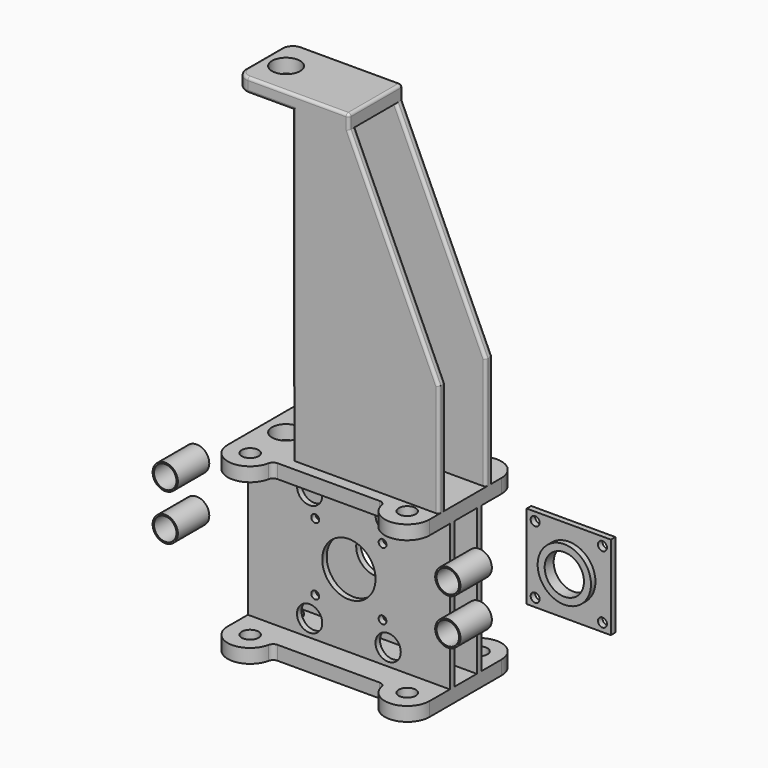
from build123d import *

# Parameters (mm, degrees)
F0_R      = 25
F0_R_2    = 15
F1_DEPTH  = 25
F2_R      = 10
F4_DEPTH  = 260
F5_R      = 15
F6_DEPTH  = 25
F7_R      = 22.5
F8_DEPTH  = 70
F9_R      = 22.5
F9_R_2    = 20
F10_DEPTH = 70
F11_W     = 260
F11_H     = 15
F12_DEPTH = 550
F14_DEPTH = 35
F16_DEPTH = 70
F17_R     = 25
F17_W     = 100
F17_H     = 15
F18_DEPTH = 25
F19_R     = 20
F20_R     = 5
F21_R     = 35
F22_DEPTH = 10
F23_R     = 7
F23_R_2   = 47.5
F24_DEPTH = 10
F25_W     = 150
F25_H     = 150
F25_R     = 8
F25_R_2   = 47.5
F25_R_3   = 35
F26_DEPTH = 10
F27_R     = 47.5
F27_R_2   = 35
F28_DEPTH = 10


with BuildPart() as f1:
    # F0 (on Top) → F1 (new body)
    with BuildSketch(Plane.XY):
        with BuildLine():
            Line((100, 80), (-100, 80))
            ThreePointArc((-100, 80), (-140, 40), (-180, 80))
            Line((-180, 80), (-180, -80))
            ThreePointArc((-180, -80), (-140, -40), (-100, -80))
            Line((-100, -80), (100, -80))
            ThreePointArc((100, -80), (140, -40), (180, -80))
            Line((180, -80), (180, 80))
            ThreePointArc((180, 80), (140, 40), (100, 80))
        make_face()
        with Locations((-140, 0)):
            Circle(F0_R, mode=Mode.SUBTRACT)
        with BuildLine():
            ThreePointArc((-180, 80), (-140, 40), (-100, 80))
            ThreePointArc((-100, 80), (-140, 120), (-180, 80))
        make_face()
        with Locations((-140, 80)):
            Circle(F0_R_2, mode=Mode.SUBTRACT)
        with BuildLine():
            ThreePointArc((180, 80), (140, 120), (100, 80))
            ThreePointArc((100, 80), (140, 40), (180, 80))
        make_face()
        with Locations((140, 80)):
            Circle(F0_R_2, mode=Mode.SUBTRACT)
        with BuildLine():
            ThreePointArc((100, -80), (140, -120), (180, -80))
            ThreePointArc((180, -80), (140, -40), (100, -80))
        make_face()
        with Locations((140, -80)):
            Circle(F0_R_2, mode=Mode.SUBTRACT)
        with BuildLine():
            ThreePointArc((-100, -80), (-140, -40), (-180, -80))
            ThreePointArc((-180, -80), (-140, -120), (-100, -80))
        make_face()
        with Locations((-140, -80)):
            Circle(F0_R_2, mode=Mode.SUBTRACT)
    extrude(amount=F1_DEPTH)

    # F2
    f2_edges = [f1.edges().sort_by_distance(p)[0] for p in [
        (-100, 80, 12.5),
        (100, 80, 12.5),
        (100, -80, 12.5),
        (-100, -80, 12.5),
    ]]
    fillet(f2_edges, radius=F2_R)

    # F3 (on face) → F4 (join)
    with BuildSketch(Plane(origin=(0, 0, 0), x_dir=(1, 0, 0), z_dir=(0, 0, -1))):
        Polygon((-180, 35), (-180, 25), (-140, 25), (180, 25), (180, 35), align=None)
        Polygon((-140, -25), (-180, -25), (-180, -35), (180, -35), (180, -25), align=None)
    extrude(amount=F4_DEPTH)

    # F5 (on face) → F6 (join)
    with BuildSketch(Plane(origin=(0, 0, -260), x_dir=(1, 0, 0), z_dir=(0, 0, -1))):
        with BuildLine():
            Line((-180, 80), (-180, 35))
            Line((-180, 35), (180, 35))
            Line((180, 35), (180, 80))
            ThreePointArc((180, 80), (144.0203584802, 119.7974461202), (100.8081641155, 88))
            ThreePointArc((100.8081641155, 88), (97.3347604647, 82.2540333076), (91.0102051443, 80))
            Line((91.0102051443, 80), (-91.0102051443, 80))
            ThreePointArc((-91.0102051443, 80), (-97.3347604647, 82.2540333076), (-100.8081641155, 88))
            ThreePointArc((-100.8081641155, 88), (-144.0203584802, 119.7974461202), (-180, 80))
        make_face()
        with Locations((-140, 80)):
            Circle(F5_R, mode=Mode.SUBTRACT)
        with Locations((140, 80)):
            Circle(F5_R, mode=Mode.SUBTRACT)
        Polygon((180, 35), (-180, 35), (-180, 25), (-140, 25), (180, 25), align=None)
        with BuildLine():
            Line((-140, 25), (-180, 25))
            Line((-180, 25), (-180, -25))
            Line((-180, -25), (-140, -25))
            ThreePointArc((-140, -25), (-165, 0), (-140, 25))
        make_face()
        with BuildLine():
            Line((180, -25), (180, 25))
            Line((180, 25), (-140, 25))
            ThreePointArc((-140, 25), (-115, 0), (-140, -25))
            Line((-140, -25), (180, -25))
        make_face()
        Polygon((-140, -25), (-180, -25), (-180, -35), (180, -35), (180, -25), align=None)
        with BuildLine():
            Line((180, -35), (-180, -35))
            Line((-180, -35), (-180, -80))
            ThreePointArc((-180, -80), (-144.0203584802, -119.7974461202), (-100.8081641155, -88))
            ThreePointArc((-100.8081641155, -88), (-97.3347604647, -82.2540333076), (-91.0102051443, -80))
            Line((-91.0102051443, -80), (91.0102051443, -80))
            ThreePointArc((91.0102051443, -80), (97.3347604647, -82.2540333076), (100.8081641155, -88))
            ThreePointArc((100.8081641155, -88), (144.0203584802, -119.7974461202), (180, -80))
            Line((180, -80), (180, -35))
        make_face()
        with Locations((-140, -80)):
            Circle(F5_R, mode=Mode.SUBTRACT)
        with Locations((140, -80)):
            Circle(F5_R, mode=Mode.SUBTRACT)
    extrude(amount=F6_DEPTH)

    # F7 (on face) → F8 (cut)
    with BuildSketch(Plane.XZ.offset(35)):
        with Locations((-70, -30)):
            Circle(F7_R)
        with Locations((70, -30)):
            Circle(F7_R)
        with Locations((70, -230)):
            Circle(F7_R)
        with Locations((-70, -230)):
            Circle(F7_R)
    extrude(amount=-F8_DEPTH, mode=Mode.SUBTRACT)

    # F11 (on face) → F12 (join)
    with BuildSketch(Plane.XY.offset(25)):
        with Locations((50, 52.5)):
            Rectangle(F11_W, F11_H)
        with Locations((50, -52.5)):
            Rectangle(F11_W, F11_H)
    extrude(amount=F12_DEPTH)

    # F13 (on face) → F14 (cut, symmetric)
    with BuildSketch(Plane.XZ.offset(60)):
        Polygon((180, 575), (20, 575), (180, 225), align=None)
    extrude(amount=F14_DEPTH, both=True, mode=Mode.SUBTRACT)

    # F15 (on face) → F16 (cut)
    with BuildSketch(Plane(origin=(0, 60, 0), x_dir=(-1, 0, 0), z_dir=(0, 1, 0))):
        Polygon((-180, 225), (-20, 575), (-180, 575), align=None)
    extrude(amount=-F16_DEPTH, mode=Mode.SUBTRACT)

    # F17 (on face) → F18 (join)
    with BuildSketch(Plane.XY.offset(575)):
        Polygon((-180, -60), (-80, -60), (-80, -45), (20, -45), (20, 45), (-80, 45), (-80, 60), (-180, 60), align=None)
        with Locations((-140, 0)):
            Circle(F17_R, mode=Mode.SUBTRACT)
        with Locations((-30, 52.5)):
            Rectangle(F17_W, F17_H)
        with Locations((-30, -52.5)):
            Rectangle(F17_W, F17_H)
    extrude(amount=F18_DEPTH)

    # F19
    f19_edges = [f1.edges().sort_by_distance(p)[0] for p in [
        (-180, 60, 587.5),
        (-180, -60, 587.5),
    ]]
    fillet(f19_edges, radius=F19_R)

    # F20
    f20_edges = [f1.edges().sort_by_distance(p)[0] for p in [
        (20, 0, 600),
        (20, -60, 587.5),
        (20, 60, 587.5),
        (100, 60, 400),
        (100, 45, 400),
        (180, 45, 125),
        (180, 60, 125),
        (-80, 60, 300),
        (-80, 45, 300),
        (-80, -60, 300),
        (-80, -45, 300),
        (-180, 0, 600),
        (-180, 0, 575),
        (100, -60, 400),
        (180, -60, 125),
        (180, -45, 125),
        (100, -45, 400),
    ]]
    fillet(f20_edges, radius=F20_R)

    # F21 (on face) → F22 (cut)
    with BuildSketch(Plane(origin=(0, 35, 0), x_dir=(-1, 0, 0), z_dir=(0, 1, 0))):
        with Locations((0, -130)):
            Circle(F21_R)
    extrude(amount=-F22_DEPTH, mode=Mode.SUBTRACT)

    # F23 (on face) → F24 (cut)
    with BuildSketch(Plane.XZ.offset(35)):
        with Locations((-60, -70)):
            Circle(F23_R)
        with Locations((60, -70)):
            Circle(F23_R)
        with Locations((0, -130)):
            Circle(F23_R_2)
        with Locations((-60, -190)):
            Circle(F23_R)
        with Locations((60, -190)):
            Circle(F23_R)
    extrude(amount=-F24_DEPTH, mode=Mode.SUBTRACT)


with BuildPart() as f10:
    # F9 (on face) → F10 (new body)
    with BuildSketch(Plane.XZ.offset(35)):
        with Locations((-271.361607454, -44.8643562805)):
            Circle(F9_R)
        with Locations((-271.361607454, -44.8643562805)):
            Circle(F9_R_2, mode=Mode.SUBTRACT)
    extrude(amount=F10_DEPTH)


with BuildPart() as f10b:
    # F9 (on face) → F10, piece 2 (new body)
    with BuildSketch(Plane.XZ.offset(35)):
        with Locations((-271.361607454, -126.6763324428)):
            Circle(F9_R)
        with Locations((-271.361607454, -126.6763324428)):
            Circle(F9_R_2, mode=Mode.SUBTRACT)
    extrude(amount=F10_DEPTH)


with BuildPart() as f10c:
    # F9 (on face) → F10, piece 3 (new body)
    with BuildSketch(Plane.XZ.offset(35)):
        with Locations((232.3528708436, -44.8643562805)):
            Circle(F9_R)
        with Locations((232.3528708436, -44.8643562805)):
            Circle(F9_R_2, mode=Mode.SUBTRACT)
    extrude(amount=F10_DEPTH)


with BuildPart() as f10d:
    # F9 (on face) → F10, piece 4 (new body)
    with BuildSketch(Plane.XZ.offset(35)):
        with Locations((232.3528708436, -126.6763324428)):
            Circle(F9_R)
        with Locations((232.3528708436, -126.6763324428)):
            Circle(F9_R_2, mode=Mode.SUBTRACT)
    extrude(amount=F10_DEPTH)


with BuildPart() as f26:
    # F25 (on face) → F26 (new body)
    with BuildSketch(Plane.XZ.offset(35)):
        with Locations((400, 0)):
            Rectangle(F25_W, F25_H)
        with Locations((340, -60)):
            Circle(F25_R, mode=Mode.SUBTRACT)
        with Locations((460, -60)):
            Circle(F25_R, mode=Mode.SUBTRACT)
        with Locations((400, 0)):
            Circle(F25_R_2, mode=Mode.SUBTRACT)
        with Locations((340, 60)):
            Circle(F25_R, mode=Mode.SUBTRACT)
        with Locations((460, 60)):
            Circle(F25_R, mode=Mode.SUBTRACT)
        with Locations((400, 0)):
            Circle(F25_R_2)
        with Locations((400, 0)):
            Circle(F25_R_3, mode=Mode.SUBTRACT)
    extrude(amount=F26_DEPTH)

    # F27 (on face) → F28 (join)
    with BuildSketch(Plane.XZ.offset(45)):
        with Locations((400, 0)):
            Circle(F27_R)
        with Locations((400, 0)):
            Circle(F27_R_2, mode=Mode.SUBTRACT)
    extrude(amount=F28_DEPTH)


solid = Compound([f1.part, f10.part, f10b.part, f10c.part, f10d.part, f26.part])
